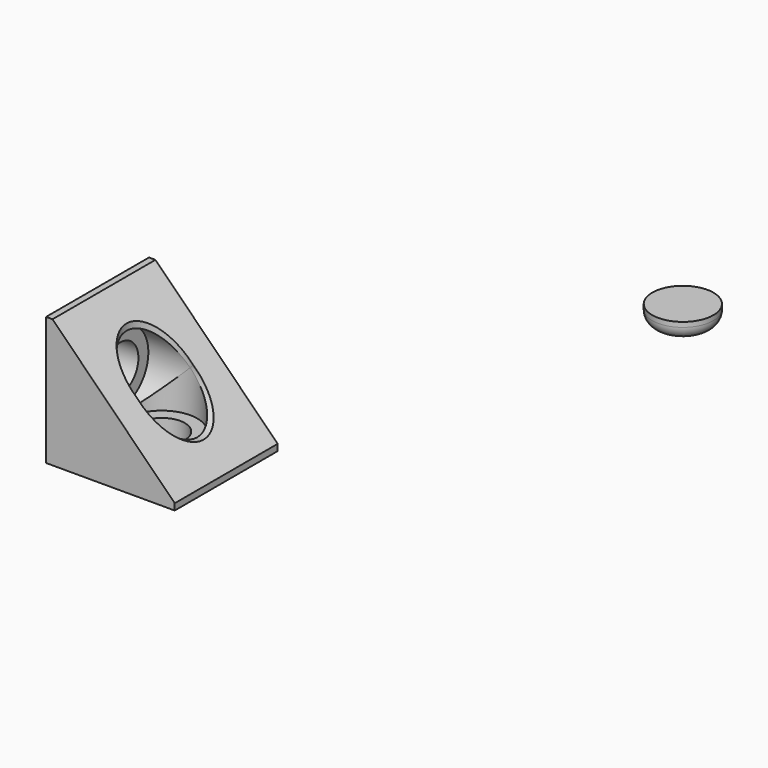
from build123d import *

# Parameters (mm, degrees)
F1_DEPTH  = 20
F5_R      = 5.5
F6_DEPTH  = 16.5
F4_R      = 5.5
F7_DEPTH  = 16.5
F3_R      = 3.57
F8_DEPTH  = 20.001
F2_R      = 3.57
F9_DEPTH  = 20.001
F10_DEPTH = 20.001
F11_R     = 4.75
F12_DEPTH = 2.75
F13_R     = 2


with BuildPart() as f1:
    # F0 (on Front) → F1 (new body)
    with BuildSketch(Plane.XZ):
        Polygon((0, 20), (0, 0), (20, 0), (20, 1), (1, 20), align=None)
        Polygon((20, 20), (1, 20), (20, 1), align=None)
    extrude(amount=F1_DEPTH)

    # F5 (on face) → F6 (cut)
    with BuildSketch(Plane.XY.offset(20)):
        with Locations((10, -10)):
            Circle(F5_R)
    extrude(amount=-F6_DEPTH, mode=Mode.SUBTRACT)

    # F4 (on face) → F7 (cut)
    with BuildSketch(Plane.YZ.offset(20)):
        with Locations((-10, 10)):
            Circle(F4_R)
    extrude(amount=-F7_DEPTH, mode=Mode.SUBTRACT)

    # F3 (on face) → F8 (cut, through all)
    with BuildSketch(Plane(origin=(0, 0, 0), x_dir=(0, -1, 0), z_dir=(-1, 0, 0))):
        with Locations((10, 10)):
            Circle(F3_R)
    extrude(amount=-F8_DEPTH, mode=Mode.SUBTRACT)

    # F2 (on face) → F9 (cut, through all)
    with BuildSketch(Plane(origin=(0, 0, 0), x_dir=(1, 0, 0), z_dir=(0, 0, -1))):
        with Locations((10, 10)):
            Circle(F2_R)
    extrude(amount=-F9_DEPTH, mode=Mode.SUBTRACT)

    # F0 (on Front) → F10 (cut, through all)
    with BuildSketch(Plane.XZ):
        Polygon((20, 20), (1, 20), (20, 1), align=None)
    extrude(amount=F10_DEPTH, mode=Mode.SUBTRACT)


with BuildPart() as f12:
    # F11 (on Top) → F12 (new body)
    with BuildSketch(Plane.XY):
        with Locations((37.521183, 56.830995)):
            Circle(F11_R)
    extrude(amount=F12_DEPTH)

    # F13
    f13_edges = [f12.edges().sort_by_distance(p)[0] for p in [
        (32.771183, 56.830995, 0),
    ]]
    fillet(f13_edges, radius=F13_R)


solid = Compound([f1.part, f12.part])
